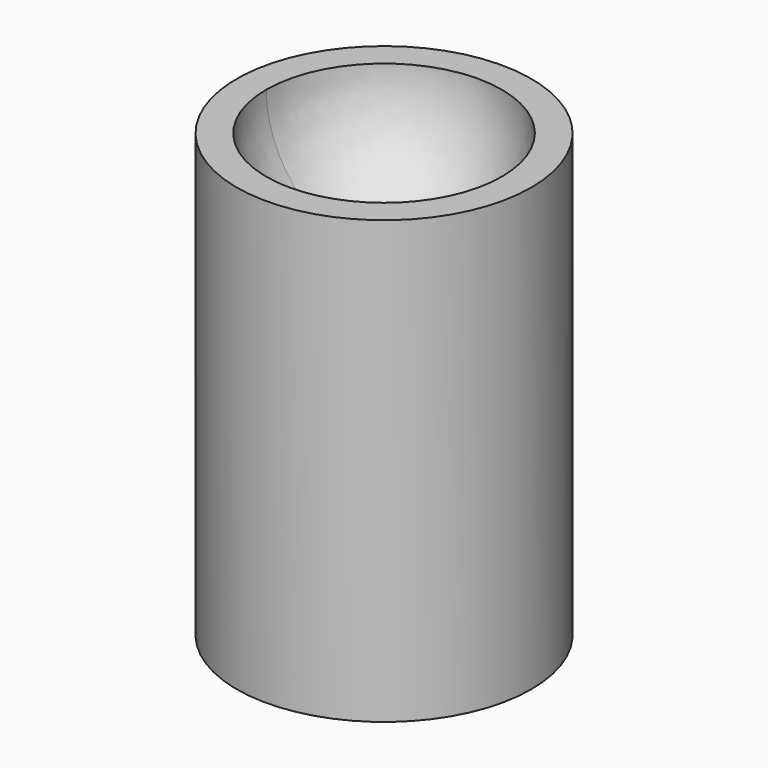
from build123d import *

# Parameters (mm, degrees)
F0_R     = 100
F1_DEPTH = 300


with BuildPart() as f1:
    # F0 (on Top) → F1 (new body)
    with BuildSketch(Plane.XY):
        Circle(F0_R)
    extrude(amount=F1_DEPTH)

    # F3 (on face) → F4 (revolve, cut)
    with BuildSketch(Plane.XY.offset(300)):
        with BuildLine():
            ThreePointArc((0, -80), (56.568542, -56.568542), (80, 0))
            ThreePointArc((80, 0), (56.568542, 56.568542), (0, 80))
            Line((0, 80), (0, -80))
        make_face()
    revolve(axis=Axis((0, 0, 300), (0, 1, 0)), mode=Mode.SUBTRACT)


solid = f1.part
